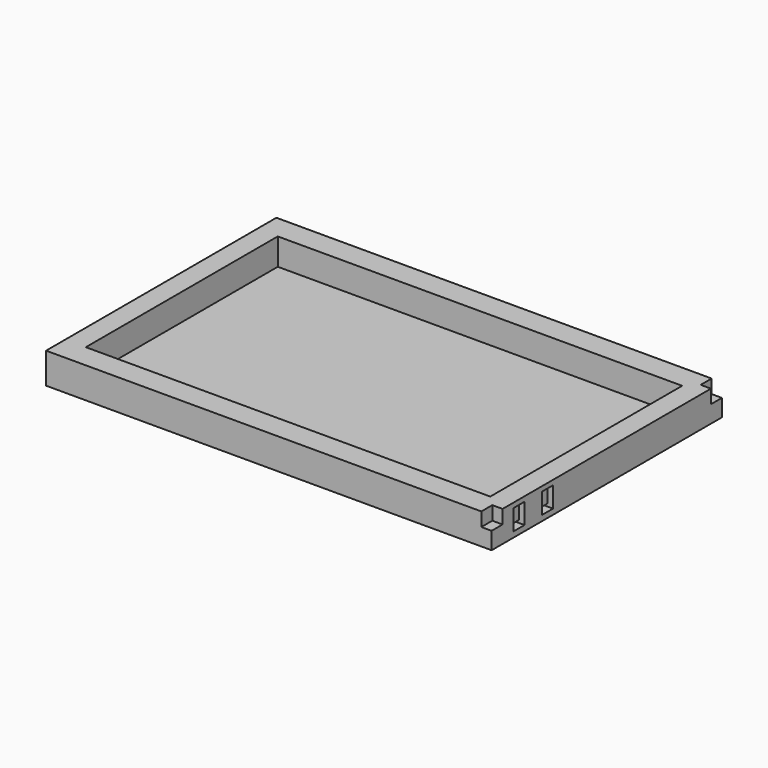
from build123d import *

# Parameters (mm, degrees)
SKETCH_W        = 65
SKETCH_H        = 42
PAD_DEPTH       = 4.5
SKETCH001_W     = 2
SKETCH001_H     = 2
POCKET_DEPTH    = 1.5
SKETCH002_W     = 2
SKETCH002_H     = 3
POCKET001_DEPTH = 0.8
SKETCH003_W     = 59
SKETCH003_H     = 35
POCKET002_DEPTH = 3.9
SKETCH004_W     = 2
SKETCH004_H     = 0.4
POCKET003_DEPTH = 5


with BuildPart() as part:
    # Sketch → Pad (new body)
    with BuildSketch(Plane.XY):
        with Locations((-32.5, 0)):
            Rectangle(SKETCH_W, SKETCH_H)
    extrude(amount=-PAD_DEPTH)

    # Sketch001 → Pocket (cut)
    with BuildSketch(Plane.YZ):
        with Locations((-20, -1)):
            Rectangle(SKETCH001_W, SKETCH001_H)
        with Locations((20, -1)):
            Rectangle(SKETCH001_W, SKETCH001_H)
    extrude(amount=-POCKET_DEPTH, mode=Mode.SUBTRACT)

    # Sketch002 → Pocket001 (cut)
    with BuildSketch(Plane.YZ):
        with Locations((-16, -2.2)):
            Rectangle(SKETCH002_W, SKETCH002_H)
        with Locations((-10.8, -2.2)):
            Rectangle(SKETCH002_W, SKETCH002_H)
    extrude(amount=-POCKET001_DEPTH, mode=Mode.SUBTRACT)

    # Sketch003 → Pocket002 (cut)
    with BuildSketch(Plane.XY):
        with Locations((-32.5, 0)):
            Rectangle(SKETCH003_W, SKETCH003_H)
    extrude(amount=-POCKET002_DEPTH, mode=Mode.SUBTRACT)

    # Sketch004 → Pocket003 (cut)
    with BuildSketch(Plane.YZ):
        with Locations((-16, -0.9)):
            Rectangle(SKETCH004_W, SKETCH004_H)
        with Locations((-16, -3.5)):
            Rectangle(SKETCH004_W, SKETCH004_H)
        with Locations((-10.8, -0.9)):
            Rectangle(SKETCH004_W, SKETCH004_H)
        with Locations((-10.8, -3.5)):
            Rectangle(SKETCH004_W, SKETCH004_H)
    extrude(amount=-POCKET003_DEPTH, mode=Mode.SUBTRACT)


solid = part.part
